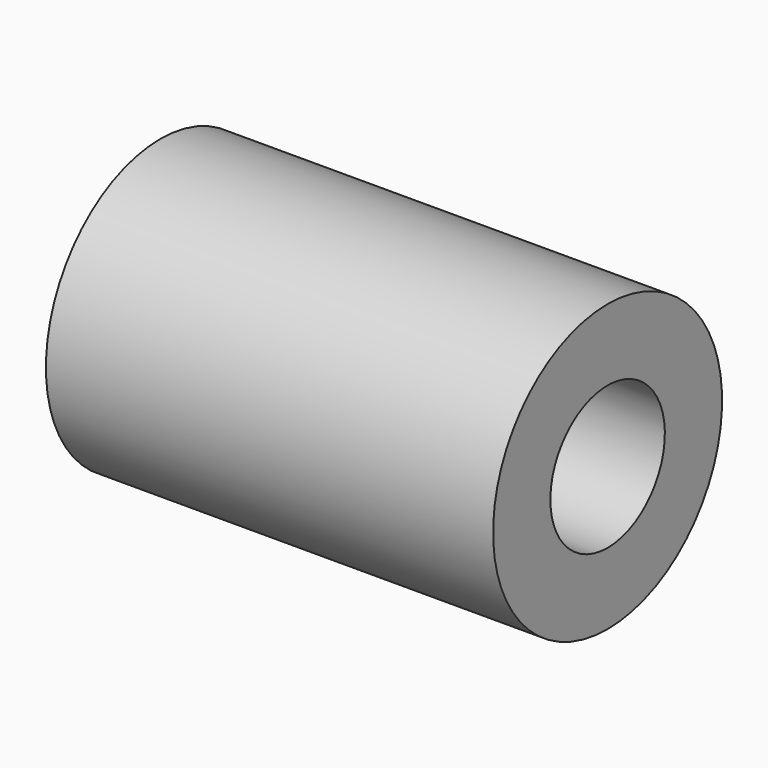
from build123d import *

# Parameters (mm, degrees)
LM8UU_CEN_X_Y_INT_R           = 4
LM8UU_CEN_X_Y_INT_DEPTH       = 27
LM8UU_CEN_X_Y_INT_PITCH_ANGLE = 90
LM8UU_CEN_X_Y_EXT_R           = 8
LM8UU_CEN_X_Y_EXT_DEPTH       = 25
LM8UU_CEN_X_Y_EXT_PITCH_ANGLE = 90


with BuildPart() as lm8uu_cen_x_y_int:
    # lm8uu_cen_x_y_int → lm8uu_cen_x_y_int (new body)
    with BuildSketch(Plane.XY):
        Circle(LM8UU_CEN_X_Y_INT_R)
    extrude(amount=LM8UU_CEN_X_Y_INT_DEPTH)


with BuildPart() as lm8uu_cen_x_y_int_1:
    # lm8uu_cen_x_y_int pitch: moved
    add(lm8uu_cen_x_y_int.part.rotate(Axis((0, 0, 0), (0, 1, 0)), LM8UU_CEN_X_Y_INT_PITCH_ANGLE))


with BuildPart() as lm8uu_cen_x_y_int_2:
    # lm8uu_cen_x_y_int placement: moved
    add(lm8uu_cen_x_y_int_1.part.moved(Location((-13.5, 0, 0))))


with BuildPart() as lm8uu_cen_x_y:
    # lm8uu_cen_x_y_ext → lm8uu_cen_x_y_ext (new body)
    with BuildSketch(Plane.XY):
        Circle(LM8UU_CEN_X_Y_EXT_R)
    extrude(amount=LM8UU_CEN_X_Y_EXT_DEPTH)


with BuildPart() as lm8uu_cen_x_y_1:
    # lm8uu_cen_x_y_ext pitch: moved
    add(lm8uu_cen_x_y.part.rotate(Axis((0, 0, 0), (0, 1, 0)), LM8UU_CEN_X_Y_EXT_PITCH_ANGLE))


with BuildPart() as lm8uu_cen_x_y_2:
    # lm8uu_cen_x_y_ext placement: moved
    add(lm8uu_cen_x_y_1.part.moved(Location((-12.5, 0, 0))))

    # lm8uu_cen_x_y: cut lm8uu_cen_x_y_int
    add(lm8uu_cen_x_y_int_2.part, mode=Mode.SUBTRACT)


with BuildPart() as lm8uu_cen_x_y_3:
    # lm8uu_cen_x_y placement: moved
    add(lm8uu_cen_x_y_2.part.moved(Location((17.25, 32.5, 0))))


solid = lm8uu_cen_x_y_3.part
